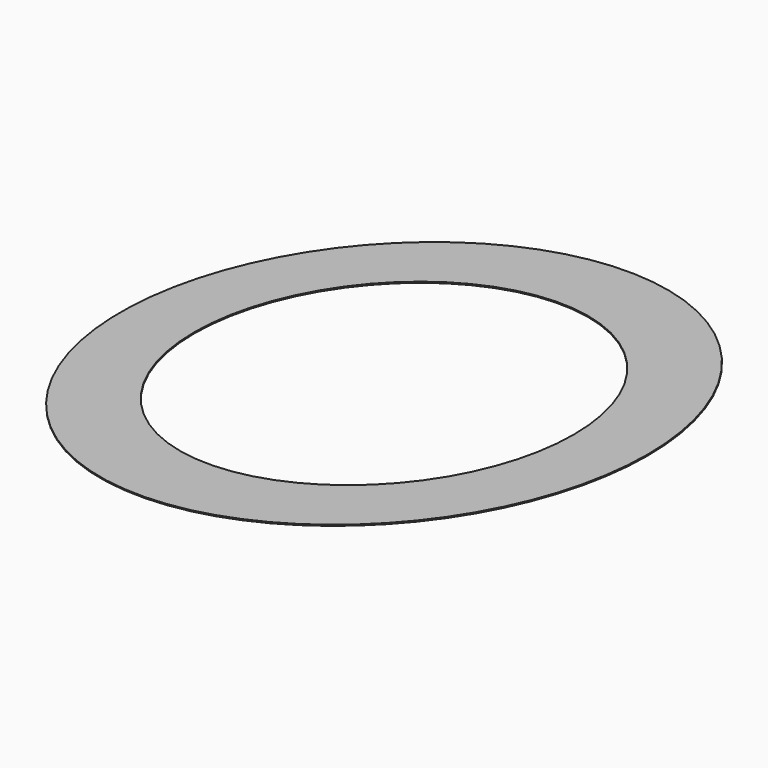
from build123d import *

# Parameters (mm, degrees)
CYLINDER001_R       = 18
CYLINDER001_DEPTH   = 10
CYLINDER_R          = 25
CYLINDER_DEPTH      = 0.1
CUT_PLACEMENT_ANGLE = 5


with BuildPart() as cylinder001:
    # Cylinder001 → Cylinder001 (new body)
    with BuildSketch(Plane.XY):
        Circle(CYLINDER001_R)
    extrude(amount=CYLINDER001_DEPTH)


with BuildPart() as cut:
    # Cylinder → Cylinder (new body)
    with BuildSketch(Plane.XY):
        Circle(CYLINDER_R)
    extrude(amount=CYLINDER_DEPTH)

    # Cut: cut Cylinder001
    add(cylinder001.part, mode=Mode.SUBTRACT)


with BuildPart() as cut_1:
    # Cut placement: moved
    add(cut.part.rotate(Axis((0, 0, 0), (0, -1, 0)), CUT_PLACEMENT_ANGLE))


solid = cut_1.part
